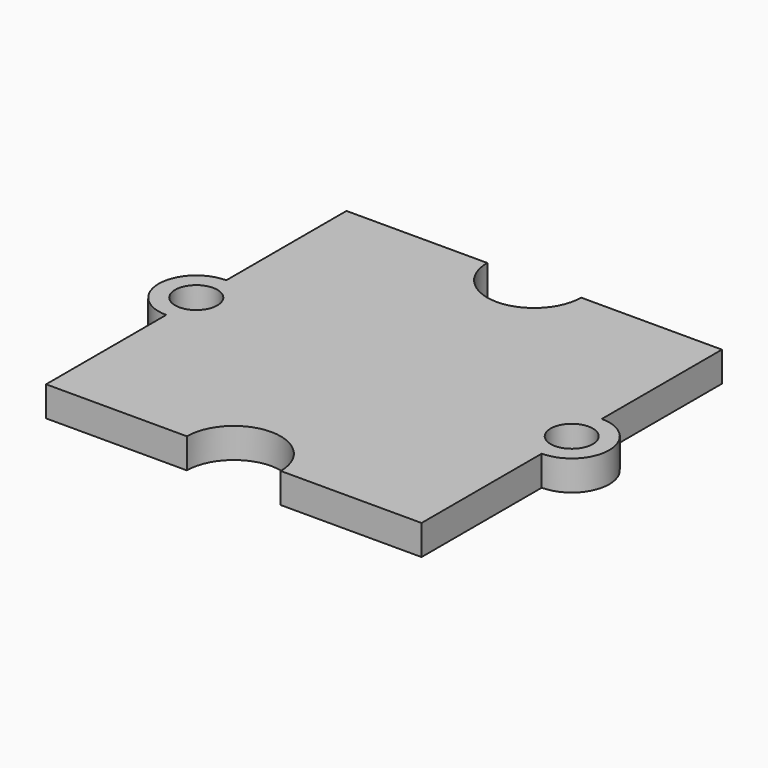
from build123d import *

# Parameters (mm, degrees)
PAD_DEPTH    = 1.6
SKETCH001_R  = 1.125
POCKET_DEPTH = 1.601


with BuildPart() as part:
    # Sketch → Pad (new body)
    with BuildSketch(Plane.XY):
        with BuildLine():
            Line((-10, 10), (-2.5, 10))
            ThreePointArc((-2.5, 10), (0, 7.5), (2.5, 10))
            Line((2.5, 10), (10, 10))
            Line((10, 10), (10, 2))
            ThreePointArc((10, -2), (12, 0), (10, 2))
            Line((10, -2), (10, -10))
            Line((10, -10), (2.5, -10))
            ThreePointArc((2.5, -10), (0, -7.5), (-2.5, -10))
            Line((-2.5, -10), (-10, -10))
            Line((-10, -10), (-10, -2))
            ThreePointArc((-10, 2), (-12, 0), (-10, -2))
            Line((-10, 10), (-10, 2))
        make_face()
    extrude(amount=PAD_DEPTH)

    # Sketch001 → Pocket (cut, through all)
    with BuildSketch(Plane.XY):
        with Locations((-10, 0)):
            Circle(SKETCH001_R)
        with Locations((10, 0)):
            Circle(SKETCH001_R)
    extrude(amount=POCKET_DEPTH, mode=Mode.SUBTRACT)


solid = part.part
